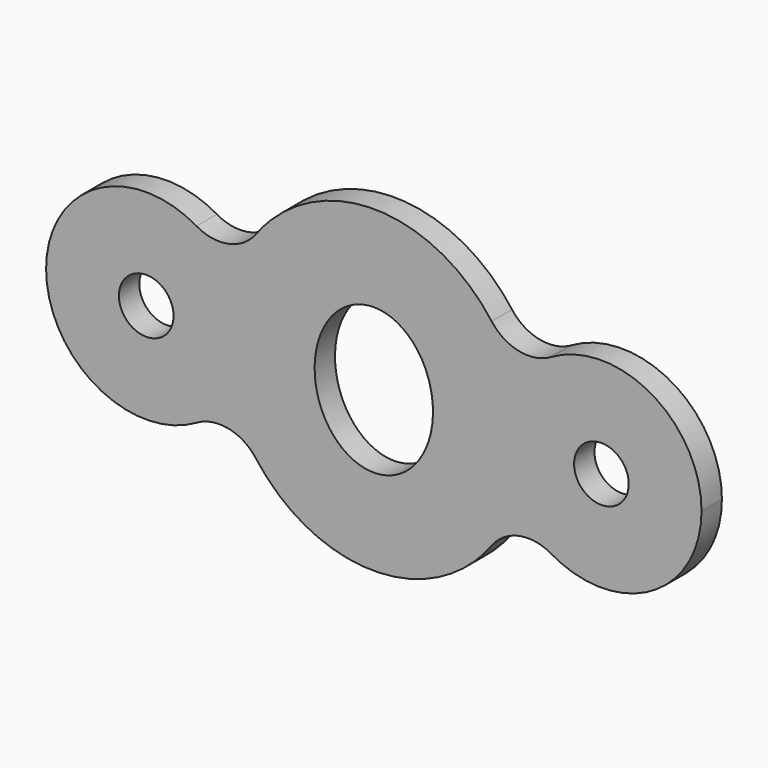
from build123d import *

# Parameters (mm, degrees)
F0_R     = 3
F1_DEPTH = 2.8
F2_R     = 5


with BuildPart() as f1:
    # F0 (on Front) → F1 (new body)
    with BuildSketch(Plane.XZ):
        with BuildLine():
            add(Edge.make_bspline(
                [(15.5973640738, 5.7088035208), (11.7607902987, 17.5), (0, 17.5)],
                knots=[5.0446882158, 5.0446882158, 5.0446882158, 6.2831853072, 6.2831853072, 6.2831853072], degree=2, weights=[1, 0.8143148482, 1]))
            add(Edge.make_bspline(
                [(0, 17.5), (-11.7607902987, 17.5), (-15.5973640738, 5.7088035208)],
                knots=[0, 0, 0, 1.2384970913, 1.2384970913, 1.2384970913], degree=2, weights=[1, 0.8143148482, 1]))
            ThreePointArc((-15.5973640738, 5.7088035208), (-14.4068655444, 2.9640348186), (-14, 0))
            ThreePointArc((-14, 0), (-14.4068655444, -2.9640348186), (-15.5973640738, -5.7088035208))
            add(Edge.make_bspline(
                [(-15.5973640738, -5.7088035208), (0, -53.6452163549), (15.5973640738, -5.7088035208)],
                knots=[1.9030955622, 1.9030955622, 1.9030955622, 4.3800897449, 4.3800897449, 4.3800897449], degree=2, weights=[1, 0.326217344, 1]))
            ThreePointArc((15.5973640738, -5.7088035208), (14, 0), (15.5973640738, 5.7088035208))
        make_face()
        with BuildLine():
            add(Edge.make_bspline(
                [(0, 8), (-11.2583302492, 8), (-5.6291651246, -4), (0, -16), (5.6291651246, -4), (11.2583302492, 8), (0, 8)],
                knots=[0, 0, 0, 2.0943951024, 2.0943951024, 4.1887902048, 4.1887902048, 6.2831853072, 6.2831853072, 6.2831853072], degree=2, weights=[1, 0.5, 1, 0.5, 1, 0.5, 1]))
        make_face(mode=Mode.SUBTRACT)
        with BuildLine():
            ThreePointArc((-14, 0), (-14.4068655444, 2.9640348186), (-15.5973640738, 5.7088035208))
            add(Edge.make_bspline(
                [(-15.5973640738, 5.7088035208), (-17.4548724203, 0), (-15.5973640738, -5.7088035208)],
                knots=[1.2384970913, 1.2384970913, 1.2384970913, 1.9030955622, 1.9030955622, 1.9030955622], degree=2, weights=[1, 0.9452947924, 1]))
            ThreePointArc((-15.5973640738, -5.7088035208), (-14.4068655444, -2.9640348186), (-14, 0))
        make_face()
        with BuildLine():
            add(Edge.make_bspline(
                [(-15.5973640738, 5.7088035208), (-17.4548724203, 0), (-15.5973640738, -5.7088035208)],
                knots=[1.2384970913, 1.2384970913, 1.2384970913, 1.9030955622, 1.9030955622, 1.9030955622], degree=2, weights=[1, 0.9452947924, 1]))
            ThreePointArc((-15.5973640738, 5.7088035208), (-36, 0), (-15.5973640738, -5.7088035208))
        make_face()
        with Locations((-25, 0)):
            Circle(F0_R, mode=Mode.SUBTRACT)
        with BuildLine():
            ThreePointArc((36, 0), (27.9640348186, 10.5931344556), (15.5973640738, 5.7088035208))
            add(Edge.make_bspline(
                [(15.5973640738, -5.7088035208), (17.4548724203, 0), (15.5973640738, 5.7088035208)],
                knots=[4.3800897449, 4.3800897449, 4.3800897449, 5.0446882158, 5.0446882158, 5.0446882158], degree=2, weights=[1, 0.9452947924, 1]))
            ThreePointArc((15.5973640738, -5.7088035208), (27.9640348186, -10.5931344556), (36, 0))
        make_face()
        with Locations((25, 0)):
            Circle(F0_R, mode=Mode.SUBTRACT)
        with BuildLine():
            add(Edge.make_bspline(
                [(15.5973640738, -5.7088035208), (17.4548724203, 0), (15.5973640738, 5.7088035208)],
                knots=[4.3800897449, 4.3800897449, 4.3800897449, 5.0446882158, 5.0446882158, 5.0446882158], degree=2, weights=[1, 0.9452947924, 1]))
            ThreePointArc((15.5973640738, 5.7088035208), (14, 0), (15.5973640738, -5.7088035208))
        make_face()
    extrude(amount=F1_DEPTH)

    # F2
    f2_edges = [f1.edges().sort_by_distance(p)[0] for p in [
        (-15.597364, -1.4, 5.708804),
        (15.597364, -1.4, -5.708804),
        (15.597364, -1.4, 5.708804),
        (-15.597364, -1.4, -5.708804),
    ]]
    fillet(f2_edges, radius=F2_R)


solid = f1.part
